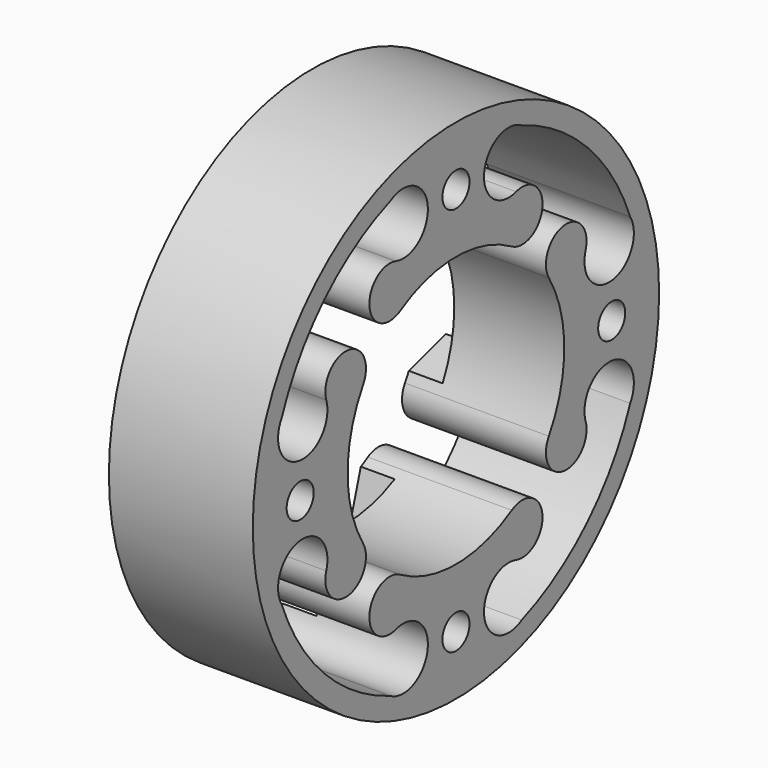
from build123d import *

# Parameters (mm, degrees)
SKETCH103_R           = 15
SKETCH103_R_2         = 8
PAD055_DEPTH          = 8.5
POCKET033_DEPTH       = 95.040009
POLARPATTERN024_COUNT = 4
POCKET034_DEPTH       = 2
POLARPATTERN025_COUNT = 4
SKETCH108_R           = 1
POCKET035_DEPTH       = 8.501


with BuildPart() as part:
    # Sketch103 → Pad055 (new body)
    with BuildSketch(Plane.YZ):
        Circle(SKETCH103_R)
        Circle(SKETCH103_R_2, mode=Mode.SUBTRACT)
    extrude(amount=-PAD055_DEPTH)

    # Sketch107 (on Face3 of Pad055) → Pocket033 (cut, through all)
    with BuildSketch(Plane.YZ):
        with BuildLine():
            ThreePointArc((4.120305, 6.857338), (6.382423, 7.966433), (4.442476, 9.573877))
            ThreePointArc((4.851745, 12.86394), (2.086453, 11.537443), (4.442476, 9.573877))
            ThreePointArc((12.86394, 4.851745), (9.721636, 9.721636), (4.851745, 12.86394))
            ThreePointArc((9.573874, 4.442468), (11.537447, 2.086454), (12.86394, 4.851745))
            ThreePointArc((9.573874, 4.442468), (7.966437, 6.382423), (6.857338, 4.120305))
            ThreePointArc((6.857338, 4.120305), (5.656854, 5.656854), (4.120305, 6.857338))
        make_face()
    pocket033 = extrude(amount=-POCKET033_DEPTH, mode=Mode.SUBTRACT)

    # PolarPattern024: Pocket033 ×4 about axis
    polarpattern024_axis = Axis((0, 0, 0), (1, 0, 0))
    for i in range(1, POLARPATTERN024_COUNT):
        add(pocket033.rotate(polarpattern024_axis, i * 360 / POLARPATTERN024_COUNT), mode=Mode.SUBTRACT)

    # Sketch105 (on ShapeBinder) → Pocket034 (cut)
    with BuildSketch(Plane(origin=(-8.5, 0, 0), x_dir=(0, -1, 0), z_dir=(-1, 0, 0))):
        with BuildLine():
            ThreePointArc((2.107476, 12.131304), (1.313608, 13.264776), (0, 13.7))
            Line((0, 13.7), (0, 0))
            Line((0, 0), (13.7, 0))
            ThreePointArc((13.7, 0), (13.264776, 1.313608), (12.131304, 2.107476))
            Line((7.14341, 3.601623), (12.131304, 2.107476))
            ThreePointArc((7.14341, 3.601623), (5.656854, 5.656854), (3.601623, 7.14341))
            Line((2.107476, 12.131304), (3.601623, 7.14341))
        make_face()
    pocket034 = extrude(amount=-POCKET034_DEPTH, mode=Mode.SUBTRACT)

    # PolarPattern025: Pocket034 ×4 about axis
    polarpattern025_axis = Axis((-8.5, 0, 0), (-1, 0, 0))
    for i in range(1, POLARPATTERN025_COUNT):
        add(pocket034.rotate(polarpattern025_axis, i * 360 / POLARPATTERN025_COUNT), mode=Mode.SUBTRACT)

    # Sketch108 (on ShapeBinder) → Pocket035 (cut, through all)
    with BuildSketch(Plane(origin=(-8.5, 0, 0), x_dir=(0, -1, 0), z_dir=(-1, 0, 0))):
        with Locations((0, 11.5)):
            Circle(SKETCH108_R)
        with Locations((11.5, 0)):
            Circle(SKETCH108_R)
        with Locations((0, -11.5)):
            Circle(SKETCH108_R)
        with Locations((-11.5, 0)):
            Circle(SKETCH108_R)
    extrude(amount=-POCKET035_DEPTH, mode=Mode.SUBTRACT)


with BuildPart() as part_1:
    # Body038 placement: moved
    add(part.part.moved(Location((18.5, 0, 0))))


solid = part_1.part
